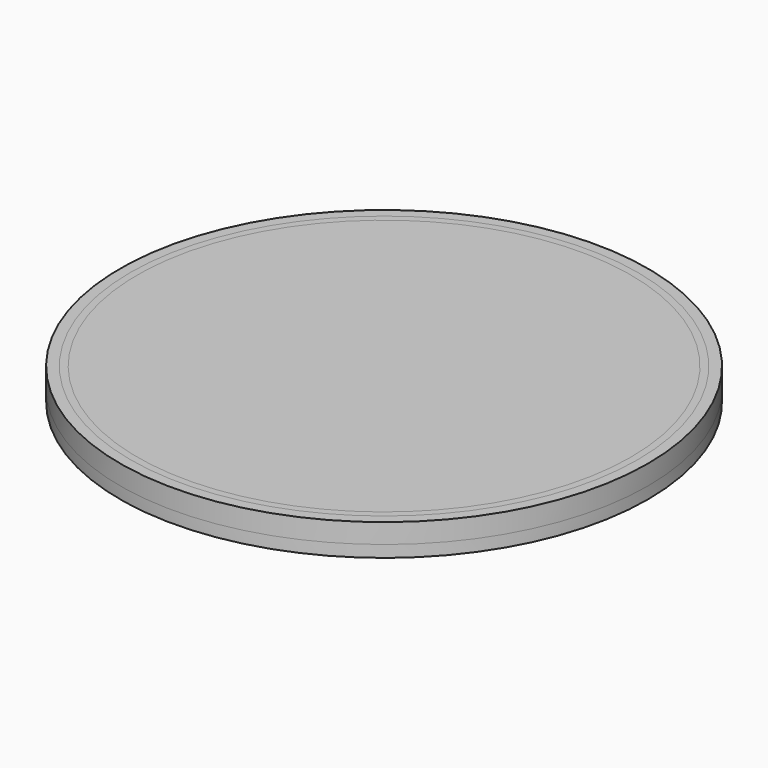
from build123d import *

# Parameters (mm, degrees)
F0_R       = 67
F1_DEPTH   = 2.5
F2_R       = 64.375
F2_R_2     = 62.625
F1_FACE1_R = 67
F3_DEPTH   = 3


with BuildPart() as f1:
    # F0 (on Top) → F1 (new body, symmetric)
    with BuildSketch(Plane.XY):
        Circle(F0_R)
    extrude(amount=F1_DEPTH, both=True)

    # F2 (on face) + F1_face1 (on face) → F3 (join)
    with BuildSketch(Plane.XY.offset(2.5)):
        Circle(F2_R)
        Circle(F2_R_2, mode=Mode.SUBTRACT)
    with BuildSketch(Plane(origin=(0, 0, -2.5), x_dir=(1, 0, 0), z_dir=(0, 0, -1))):
        Circle(F1_FACE1_R)
    extrude(amount=-F3_DEPTH, dir=(0, 0, 1))


solid = f1.part
